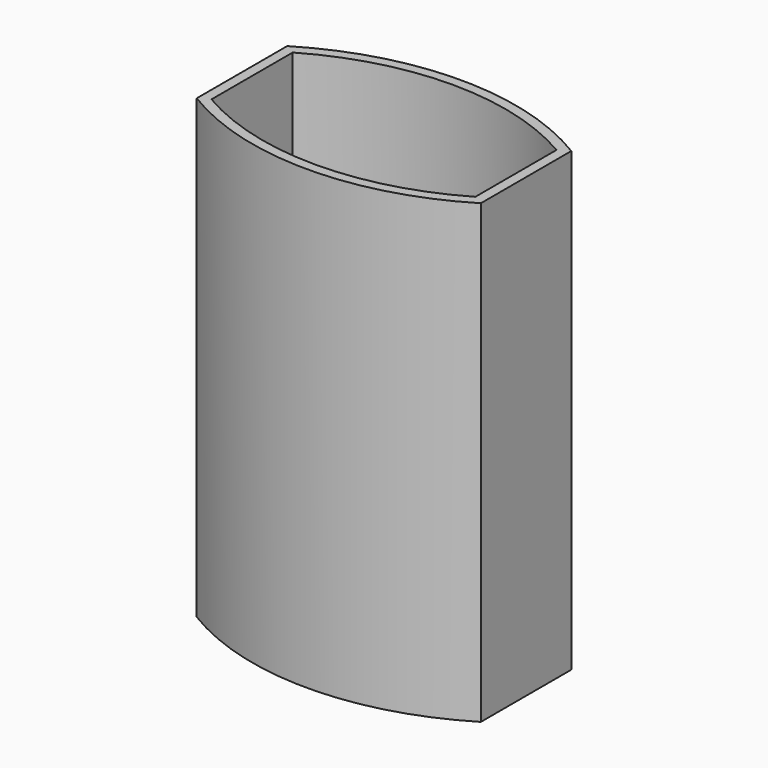
from build123d import *

# Parameters (mm, degrees)
F1_DEPTH = 45
F0_R     = 1.2
F2_DEPTH = 1.5


with BuildPart() as f1:
    # F0 (on Top) → F1 (new body)
    with BuildSketch(Plane.XY):
        with BuildLine():
            Line((-13.376313, -16.508007), (-13.376313, -5.371486))
            ThreePointArc((-13.376313, -5.371486), (-27.376313, -1.436818), (-41.376313, -5.371486))
            Line((-41.376313, -5.371486), (-41.376313, -16.508007))
            ThreePointArc((-41.376313, -16.508007), (-27.376313, -20.442675), (-13.376313, -16.508007))
        make_face()
        with BuildLine():
            Line((-40.376313, -15.939747), (-40.376313, -5.939747))
            ThreePointArc((-40.376313, -5.939747), (-27.376313, -2.436818), (-14.376313, -5.939747))
            Line((-14.376313, -5.939747), (-14.376313, -15.939747))
            ThreePointArc((-14.376313, -15.939747), (-27.376313, -19.442675), (-40.376313, -15.939747))
        make_face(mode=Mode.SUBTRACT)
    extrude(amount=F1_DEPTH)

    # F0 (on Top) → F2 (join)
    with BuildSketch(Plane.XY):
        with BuildLine():
            ThreePointArc((-14.376313, -5.939747), (-27.376313, -2.436818), (-40.376313, -5.939747))
            Line((-40.376313, -5.939747), (-40.376313, -15.939747))
            ThreePointArc((-40.376313, -15.939747), (-27.376313, -19.442675), (-14.376313, -15.939747))
            Line((-14.376313, -15.939747), (-14.376313, -5.939747))
        make_face()
        with Locations((-32.828095, -16.290346)):
            Circle(F0_R, mode=Mode.SUBTRACT)
        with Locations((-28.928095, -16.290346)):
            Circle(F0_R, mode=Mode.SUBTRACT)
        with Locations((-36.702558, -12.947978)):
            Circle(F0_R, mode=Mode.SUBTRACT)
        with Locations((-32.828095, -12.947978)):
            Circle(F0_R, mode=Mode.SUBTRACT)
        with Locations((-28.928095, -12.947978)):
            Circle(F0_R, mode=Mode.SUBTRACT)
        with Locations((-25.028095, -16.290346)):
            Circle(F0_R, mode=Mode.SUBTRACT)
        with Locations((-21.128095, -16.290346)):
            Circle(F0_R, mode=Mode.SUBTRACT)
        with Locations((-25.028095, -12.947978)):
            Circle(F0_R, mode=Mode.SUBTRACT)
        with Locations((-21.128095, -12.947978)):
            Circle(F0_R, mode=Mode.SUBTRACT)
        with Locations((-17.228095, -12.947978)):
            Circle(F0_R, mode=Mode.SUBTRACT)
        with Locations((-36.702558, -9.047978)):
            Circle(F0_R, mode=Mode.SUBTRACT)
        with Locations((-32.828095, -9.047978)):
            Circle(F0_R, mode=Mode.SUBTRACT)
        with Locations((-28.928095, -9.047978)):
            Circle(F0_R, mode=Mode.SUBTRACT)
        with Locations((-32.828095, -5.190346)):
            Circle(F0_R, mode=Mode.SUBTRACT)
        with Locations((-28.928095, -5.190346)):
            Circle(F0_R, mode=Mode.SUBTRACT)
        with Locations((-25.028095, -9.047978)):
            Circle(F0_R, mode=Mode.SUBTRACT)
        with Locations((-21.128095, -9.047978)):
            Circle(F0_R, mode=Mode.SUBTRACT)
        with Locations((-17.228095, -9.047978)):
            Circle(F0_R, mode=Mode.SUBTRACT)
        with Locations((-25.028095, -5.190346)):
            Circle(F0_R, mode=Mode.SUBTRACT)
        with Locations((-21.128095, -5.190346)):
            Circle(F0_R, mode=Mode.SUBTRACT)
    extrude(amount=F2_DEPTH)


solid = f1.part
